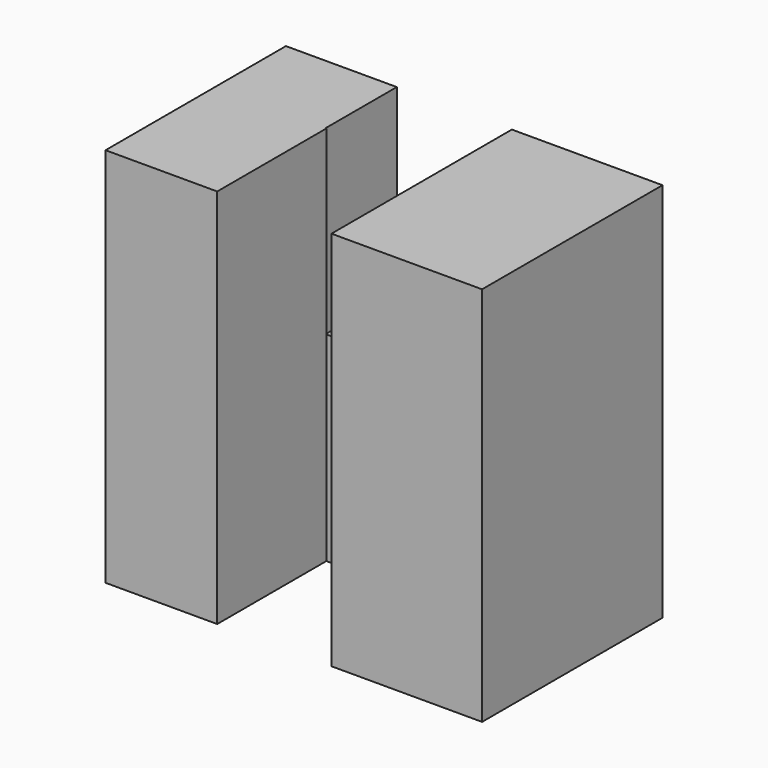
from build123d import *

# Parameters (mm, degrees)
F0_W     = 148.2112929225
F0_H     = 149.8982533813
F1_DEPTH = 144.78
F2_W     = 44.9698530138
F2_H     = 149.8982533813
F3_DEPTH = 109.728
F4_W     = 45.2879443765
F4_H     = 35.052
F5_DEPTH = 71.374
F6_W     = 56.0343910742
F6_H     = 149.8982533813
F7_DEPTH = 158.75


with BuildPart() as f1:
    # F0 (on Front) → F1 (new body)
    with BuildSketch(Plane.XZ):
        with Locations((-14.8211307824, -3.6149062216)):
            Rectangle(F0_W, F0_H)
    extrude(amount=F1_DEPTH)

    # F2 (on face) → F3 (cut)
    with BuildSketch(Plane.XZ.offset(144.78)):
        with Locations((-22.4849265069, -3.6149062216)):
            Rectangle(F2_W, F2_H)
    extrude(amount=-F3_DEPTH, mode=Mode.SUBTRACT)

    # F4 (on face) → F5 (cut)
    with BuildSketch(Plane.XY.offset(71.334220469)):
        with Locations((-22.6439721882, -17.526)):
            Rectangle(F4_W, F4_H)
    extrude(amount=-F5_DEPTH, mode=Mode.SUBTRACT)

    # F6 (on face) → F7 (cut)
    with BuildSketch(Plane.YZ.offset(59.2845156789)):
        with Locations((-116.7628044629, -3.6149062216)):
            Rectangle(F6_W, F6_H)
    extrude(amount=-F7_DEPTH, mode=Mode.SUBTRACT)


solid = f1.part
